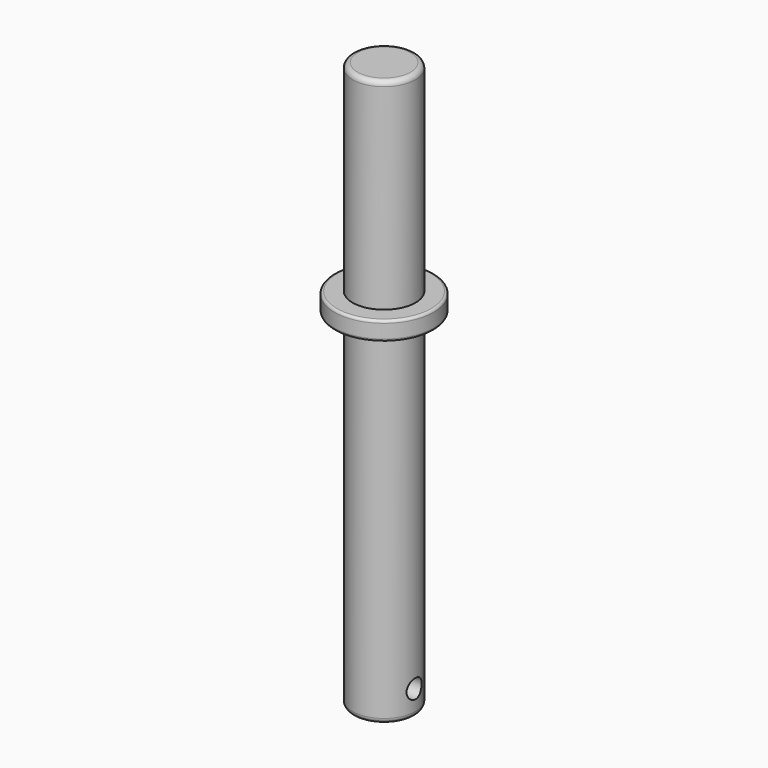
from build123d import *

# Parameters (mm, degrees)
F0_R          = 3.175
F1_DEPTH      = 28.575
F3_R          = 5.0165
F4_DEPTH      = 1.905
F5_R          = 0.254
F6_R          = 0.9525
F7_DEPTH      = 5.0175
F7_DEPTH_BACK = 25.4
F8_R          = 0.508


with BuildPart() as f1:
    # F0 (on Top) → F1 (new body, symmetric)
    with BuildSketch(Plane.XY):
        Circle(F0_R)
    extrude(amount=F1_DEPTH, both=True)

    # F3 (on offset) → F4 (join)
    with BuildSketch(Plane.XY.offset(6.35)):
        Circle(F3_R)
    extrude(amount=F4_DEPTH)

    # F5
    f5_edges = [f1.edges().sort_by_distance(p)[0] for p in [
        (-5.0165, 0, 8.255),
        (-5.0165, 0, 6.35),
    ]]
    fillet(f5_edges, radius=F5_R)

    # F6 (on Right) → F7 (cut, two sides)
    with BuildSketch(Plane.YZ) as f7_sk:
        with Locations((0, -26.035)):
            Circle(F6_R)
    extrude(amount=-F7_DEPTH, mode=Mode.SUBTRACT)
    extrude(f7_sk.sketch, amount=F7_DEPTH_BACK, mode=Mode.SUBTRACT)

    # F8
    f8_edges = [f1.edges().sort_by_distance(p)[0] for p in [
        (-3.175, 0, 28.575),
        (-3.175, 0, -28.575),
    ]]
    fillet(f8_edges, radius=F8_R)


solid = f1.part
